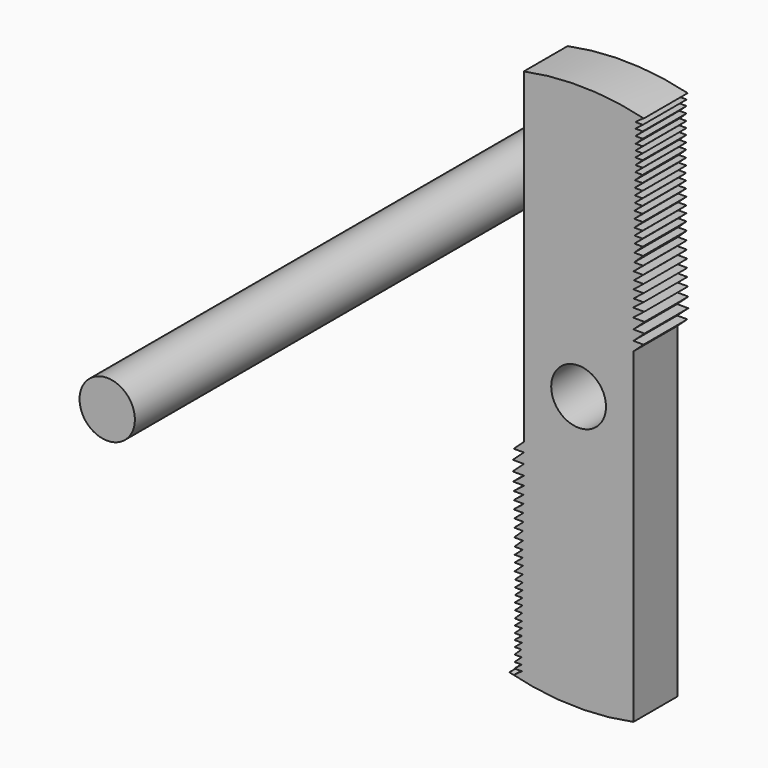
from build123d import *

# Parameters (mm, degrees)
F0_R     = 5
F1_DEPTH = 0.5
F3_DEPTH = 12.5
F4_D     = 1
F4_DEPTH = 25
F5_D     = 1
F5_DEPTH = 25
F7_R     = 0.505
F8_DEPTH = 5


with BuildPart() as f1:
    # F0 (on Front) → F1 (new body, symmetric)
    with BuildSketch(Plane.XZ):
        Circle(F0_R)
    extrude(amount=F1_DEPTH, both=True)

    # F2 (on Front) → F3 (cut, symmetric)
    with BuildSketch(Plane.XZ):
        Polygon((-1, -1.052691), (-1, 0), (-1, 4.923347), (-1.643169, 5.041756), (-4.193227, 3.551493), (-5.548456, 1.312419), (-5.096713, -1.928346), (-3.132613, -4.462035), (-1.180075, -4.854486), (-1.036088, -4.747373), (-1.17215, -4.747373), (-1.036088, -4.641925), (-1.169763, -4.641925), (-1.037824, -4.522795), (-1.169802, -4.522795), (-1.041803, -4.400989), (-1.167076, -4.400989), (-1.035988, -4.289091), (-1.170353, -4.289091), (-1.032711, -4.177666), (-1.167076, -4.177666), (-1.035988, -4.05641), (-1.167076, -4.05641), (-1.032711, -3.941708), (-1.167076, -3.941708), (-1.029433, -3.81062), (-1.163799, -3.81062), (-1.022879, -3.686086), (-1.167076, -3.686086), (-1.022879, -3.56483), (-1.163799, -3.56483), (-1.022879, -3.443574), (-1.163799, -3.443574), (-1.016325, -3.315763), (-1.163799, -3.315763), (-1.015975, -3.186056), (-1.170299, -3.186056), (-1.015975, -3.045511), (-1.167543, -3.045511), (-1.018731, -2.918744), (-1.167543, -2.918744), (-1.018731, -2.789223), (-1.170299, -2.789223), (-1.015975, -2.643166), (-1.175811, -2.643166), (-1.01322, -2.486086), (-1.175811, -2.486086), (-1.002196, -2.338119), (-1.17582, -2.338119), (-1.008784, -2.195829), (-1.1851, -2.195829), (-0.999504, -2.047352), (-1.1851, -2.047352), (-1.002597, -1.901969), (-1.1851, -1.901969), (-0.993318, -1.753492), (-1.197473, -1.753492), (-0.993318, -1.592642), (-1.20366, -1.592642), (-0.998881, -1.404925), (-1.202109, -1.404925), (-0.998881, -1.221052), (-1.185014, -1.221052), align=None)
        Polygon((1, 1.052691), (1, 0), (1, -4.96678), (3.534509, -4.418978), (5.062221, -2.446841), (5.478869, 0.580805), (4.617795, 3.302909), (1.756808, 4.941727), (1.180075, 4.854486), (1.036088, 4.747373), (1.17215, 4.747373), (1.036088, 4.641925), (1.169763, 4.641925), (1.037824, 4.522795), (1.169802, 4.522795), (1.041803, 4.400989), (1.167076, 4.400989), (1.035988, 4.289091), (1.170353, 4.289091), (1.032711, 4.177666), (1.167076, 4.177666), (1.035988, 4.05641), (1.167076, 4.05641), (1.032711, 3.941708), (1.167076, 3.941708), (1.029433, 3.81062), (1.163799, 3.81062), (1.022879, 3.686086), (1.167076, 3.686086), (1.022879, 3.56483), (1.163799, 3.56483), (1.022879, 3.443574), (1.163799, 3.443574), (1.016325, 3.315763), (1.163799, 3.315763), (1.015975, 3.186056), (1.170299, 3.186056), (1.015975, 3.045511), (1.167543, 3.045511), (1.018731, 2.918744), (1.167543, 2.918744), (1.018731, 2.789223), (1.170299, 2.789223), (1.015975, 2.643166), (1.175811, 2.643166), (1.01322, 2.486086), (1.175811, 2.486086), (1.002196, 2.338119), (1.17582, 2.338119), (1.008784, 2.195829), (1.1851, 2.195829), (0.999504, 2.047352), (1.1851, 2.047352), (1.002597, 1.901969), (1.1851, 1.901969), (0.993318, 1.753492), (1.197473, 1.753492), (0.993318, 1.592642), (1.20366, 1.592642), (0.998881, 1.404925), (1.202109, 1.404925), (0.998881, 1.221052), (1.185014, 1.221052), align=None)
    extrude(amount=F3_DEPTH, both=True, mode=Mode.SUBTRACT)

    # F4
    with Locations(Plane.XZ):
        with Locations((0, 0)):
            Hole(F4_D / 2, depth=F4_DEPTH)

    # F5
    with Locations(Plane(origin=(0, 0, 0), x_dir=(1, 0, 0), z_dir=(0, 1, 0))):
        with Locations((0, 0)):
            Hole(F5_D / 2, depth=F5_DEPTH)


with BuildPart() as f1_1:
    # F6: moved
    add(f1.part.moved(Location((60, 0, 0))))


with BuildPart() as f8:
    # F7 (on Front) → F8 (new body, symmetric)
    with BuildSketch(Plane.XZ):
        Circle(F7_R)
    extrude(amount=F8_DEPTH, both=True)


with BuildPart() as f8_1:
    # F9: moved
    add(f8.part.moved(Location((55, 0, 0))))


solid = Compound([f1_1.part, f8_1.part])
